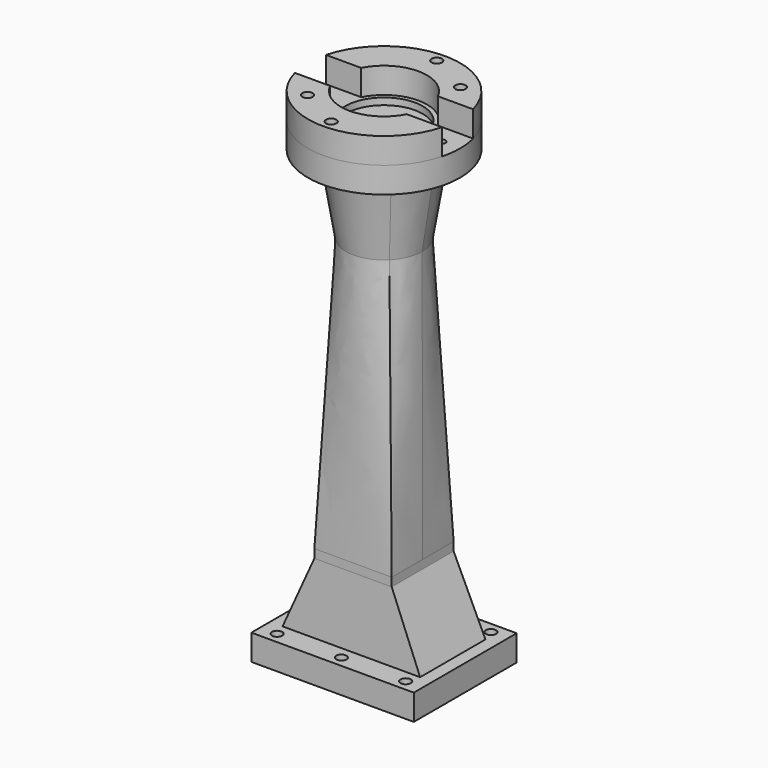
from build123d import *

# Parameters (mm, degrees)
F2_W        = 22.86
F2_H        = 22.86
F2_R        = 11.24966
F11_DEPTH   = 2.54
F6_W        = 40.64
F6_H        = 24.13
F11_FACE_W  = 22.86
F11_FACE_H  = 22.86
F4_R        = 11.249914
F11_FACE1_W = 22.86
F11_FACE1_H = 22.86
F0_W        = 47.99838
F0_H        = 37.9984
F14_DEPTH   = 7.62
F16_R       = 14.986
F10_R       = 22.479
F10_R_2     = 14.986
F18_DEPTH   = 7.62
F19_DEPTH   = 7.62
F21_R       = 1.524
F22_DEPTH   = 25.4
F23_R       = 1.524
F24_DEPTH   = 25.4
F20_R       = 1.143
F25_DEPTH   = 25.4
F26_R       = 11.43
F27_DEPTH   = 1.99898


with BuildPart() as f11:
    # F2 (on offset) → F11 (new body)
    with BuildSketch(Plane.XY.offset(30.48)):
        Rectangle(F2_W, F2_H)
        Circle(F2_R, mode=Mode.SUBTRACT)
        Circle(F2_R)
    extrude(amount=-F11_DEPTH)

    # F6 (on offset) → F12 section 0
    with BuildSketch(Plane.XY.offset(7.62)):
        Rectangle(F6_W, F6_H)
    # F11_face (on face) → F12 section 1
    with BuildSketch(Plane(origin=(0, 0, 27.94), x_dir=(1, 0, 0), z_dir=(0, 0, -1))):
        Rectangle(F11_FACE_W, F11_FACE_H)
    loft()

    # F4 (on offset) → F13 section 0
    with BuildSketch(Plane.XY.offset(110.4646)):
        Circle(F4_R)
    # F11_face1 (on face) → F13 section 1
    with BuildSketch(Plane.XY.offset(30.48)):
        Rectangle(F11_FACE1_W, F11_FACE1_H)
    loft()

    # F0 (on Top) → F14 (join, through all)
    with BuildSketch(Plane.XY):
        Rectangle(F0_W, F0_H)
    extrude(amount=F14_DEPTH)

    # F13_face (on face) → F17 section 0
    with BuildSketch(Plane.XY.offset(110.4646)):
        with BuildLine():
            ThreePointArc((11.249914, 0), (10.3935652871, 4.3051557033), (7.9548904772, 7.9548904772))
            ThreePointArc((7.9548904772, 7.9548904772), (0, 11.249914), (-7.9548904772, 7.9548904772))
            ThreePointArc((-7.9548904772, 7.9548904772), (-11.249914, 0), (-7.9548904772, -7.9548904772))
            ThreePointArc((-7.9548904772, -7.9548904772), (0, -11.249914), (7.9548904772, -7.9548904772))
            ThreePointArc((7.9548904772, -7.9548904772), (10.3935652871, -4.3051557033), (11.249914, 0))
        make_face()
    # F16 (on offset) → F17 section 1
    with BuildSketch(Plane.XY.offset(133.3246)):
        Circle(F16_R)
    loft()

    # F10 (on offset) → F18 (join, through all)
    with BuildSketch(Plane.XY.offset(140.9446)):
        Circle(F10_R)
        Circle(F10_R_2, mode=Mode.SUBTRACT)
        Circle(F10_R_2)
    extrude(amount=-F18_DEPTH)

    # F8 (on offset) → F19 (join, through all)
    with BuildSketch(Plane.XY.offset(148.5646)):
        with BuildLine():
            ThreePointArc((-21.7316752019, -5.74802), (0, -22.479), (21.7316752019, -5.74802))
            Line((21.7316752019, -5.74802), (11.3247634006, -5.74802))
            ThreePointArc((11.3247634006, -5.74802), (0, -12.7), (-11.3247634006, -5.74802))
            Line((-11.3247634006, -5.74802), (-21.7316752019, -5.74802))
        make_face()
        with BuildLine():
            Line((11.3247634006, 5.74802), (21.7316752019, 5.74802))
            ThreePointArc((21.7316752019, 5.74802), (0, 22.479), (-21.7316752019, 5.74802))
            Line((-21.7316752019, 5.74802), (-11.3247634006, 5.74802))
            ThreePointArc((-11.3247634006, 5.74802), (0, 12.7), (11.3247634006, 5.74802))
        make_face()
    extrude(amount=-F19_DEPTH)

    # F21 (on face) → F22 (cut)
    with BuildSketch(Plane(origin=(0, 0, 0), x_dir=(1, 0, 0), z_dir=(0, 0, -1))):
        with Locations((-18.9992, 15.748)):
            Circle(F21_R)
        with Locations((0, 15.748)):
            Circle(F21_R)
        with Locations((18.9992, 15.748)):
            Circle(F21_R)
        with Locations((-18.9992, -15.748)):
            Circle(F21_R)
        with Locations((0, -15.748)):
            Circle(F21_R)
        with Locations((18.9992, -15.748)):
            Circle(F21_R)
    extrude(amount=-F22_DEPTH, mode=Mode.SUBTRACT)

    # F23 (on face) → F24 (cut)
    with BuildSketch(Plane.XY.offset(148.5646)):
        with Locations((0, 19.49958)):
            Circle(F23_R)
        with Locations((12.5543980573, 12.5543980573)):
            Circle(F23_R)
        with Locations((0, -19.499834)):
            Circle(F23_R)
        with Locations((-12.5543980573, -12.5543980573)):
            Circle(F23_R)
    extrude(amount=-F24_DEPTH, mode=Mode.SUBTRACT)

    # F20 (on face) → F25 (cut)
    with BuildSketch(Plane.XY.offset(140.9446)):
        with Locations((16.9926, 0)):
            Circle(F20_R)
        with Locations((-16.9926, 0)):
            Circle(F20_R)
    extrude(amount=-F25_DEPTH, mode=Mode.SUBTRACT)

    # F26 (on face) → F27 (cut)
    with BuildSketch(Plane.XY.offset(140.9446)):
        Circle(F26_R)
    extrude(amount=-F27_DEPTH, mode=Mode.SUBTRACT)


solid = f11.part
